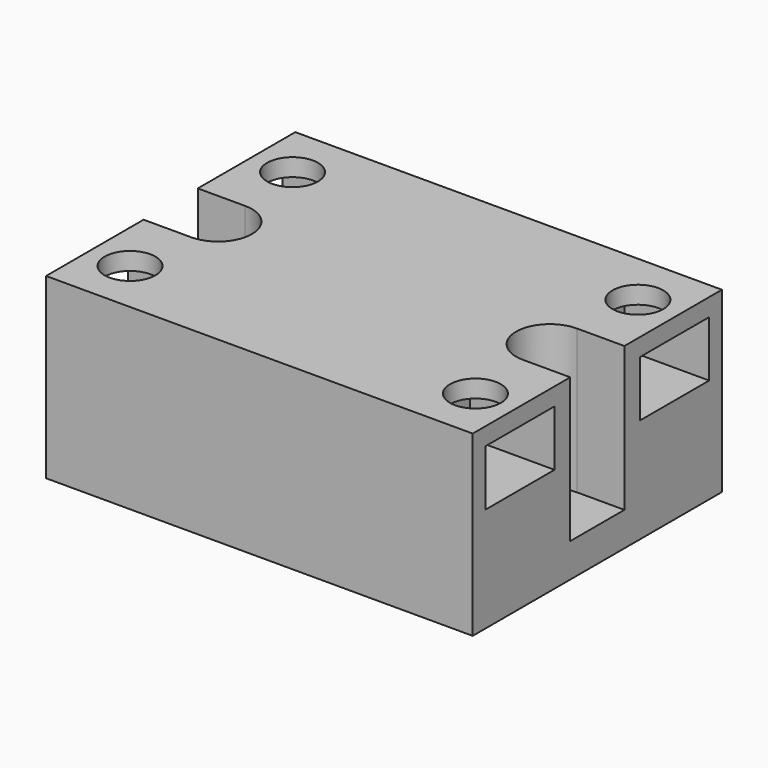
from build123d import *

# Parameters (mm, degrees)
F0_W      = 63
F0_H      = 46
F1_DEPTH  = 26.3
F3_DEPTH  = 21.3
F4_R      = 2.15
F5_DEPTH  = 5.001
F6_W      = 12.75
F6_H      = 8.25
F7_DEPTH  = 63.001
F8_W      = 38
F8_H      = 46
F9_DEPTH  = 26.3
F10_R     = 3.75
F11_DEPTH = 2.6


with BuildPart() as f1:
    # F0 (on Top) → F1 (new body)
    with BuildSketch(Plane.XY):
        with Locations((31.5, 23)):
            Rectangle(F0_W, F0_H)
    extrude(amount=F1_DEPTH)

    # F2 (on face) → F3 (cut)
    with BuildSketch(Plane.XY.offset(26.3)):
        with BuildLine():
            Line((7, 28), (0, 28))
            Line((0, 28), (0, 18))
            Line((0, 18), (7, 18))
            ThreePointArc((7, 18), (12, 23), (7, 28))
        make_face()
        with BuildLine():
            Line((63, 18), (63, 28))
            Line((63, 28), (56, 28))
            ThreePointArc((56, 28), (51, 23), (56, 18))
            Line((56, 18), (63, 18))
        make_face()
    extrude(amount=-F3_DEPTH, mode=Mode.SUBTRACT)

    # F4 (on face) → F5 (cut, through all)
    with BuildSketch(Plane.XY.offset(5)):
        with BuildLine():
            Line((8.9, 25.15), (6.1, 25.15))
            ThreePointArc((6.1, 25.15), (3.95, 23), (6.1, 20.85))
            Line((6.1, 20.85), (8.9, 20.85))
            ThreePointArc((8.9, 20.85), (11.05, 23), (8.9, 25.15))
        make_face()
        with Locations((55.45, 23)):
            Circle(F4_R)
    extrude(amount=-F5_DEPTH, mode=Mode.SUBTRACT)

    # F6 (on face) → F7 (cut, through all)
    with BuildSketch(Plane.YZ.offset(63)):
        with Locations((37.275, 19.575)):
            Rectangle(F6_W, F6_H)
        with Locations((8.725, 19.575)):
            Rectangle(F6_W, F6_H)
    extrude(amount=-F7_DEPTH, mode=Mode.SUBTRACT)

    # F8 (on Top) → F9 (join, through all)
    with BuildSketch(Plane.XY):
        with Locations((31.5, 23)):
            Rectangle(F8_W, F8_H)
    extrude(amount=F9_DEPTH)

    # F10 (on face) → F11 (cut, through all)
    with BuildSketch(Plane.XY.offset(26.3)):
        with Locations((6, 38)):
            Circle(F10_R)
        with Locations((6, 8)):
            Circle(F10_R)
        with Locations((57, 38)):
            Circle(F10_R)
        with Locations((57, 8)):
            Circle(F10_R)
    extrude(amount=-F11_DEPTH, mode=Mode.SUBTRACT)


solid = f1.part
